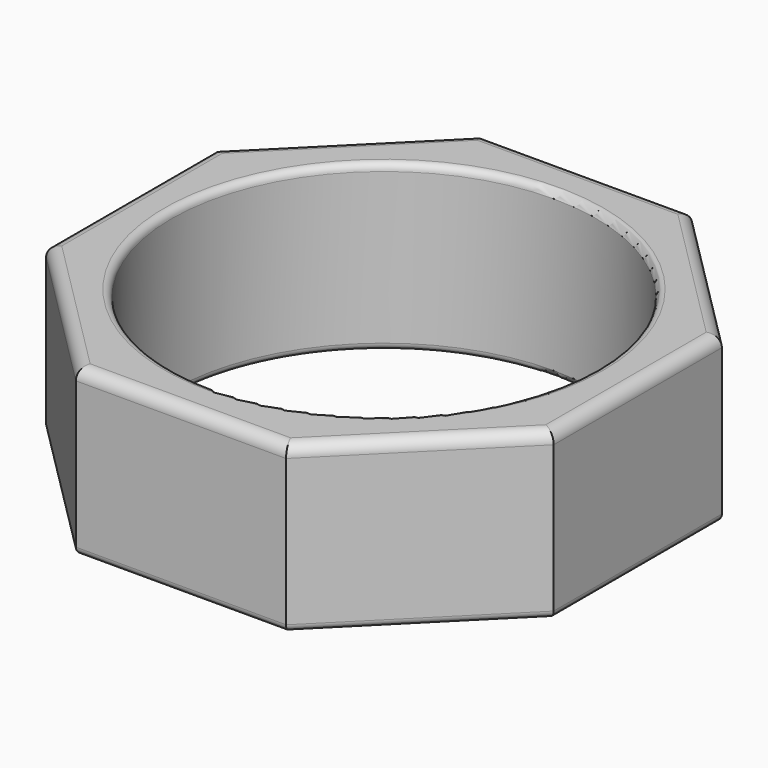
from build123d import *

# Parameters (mm, degrees)
F1_R     = 9
F2_DEPTH = 7
F3_R     = 0.5
F4_R     = 0.3
F5_R     = 0.3
F6_R     = 0.3


with BuildPart() as f2:
    # F1 (on Top) → F2 (new body)
    with BuildSketch(Plane.XY):
        Polygon((4.4527957955, 10.75), (-4.4527957955, 10.75), (-10.75, 4.4527957955), (-10.75, -4.4527957955), (-4.4527957955, -10.75), (4.4527957955, -10.75), (10.75, -4.4527957955), (10.75, 4.4527957955), align=None)
        Circle(F1_R, mode=Mode.SUBTRACT)
    extrude(amount=F2_DEPTH)

    # F3
    f3_edges = [f2.edges().sort_by_distance(p)[0] for p in [
        (7.601398, 7.601398, 7),
        (0, 10.75, 7),
        (-7.601398, 7.601398, 7),
        (-10.75, 0, 7),
        (-7.601398, -7.601398, 7),
        (0, -10.75, 7),
        (7.601398, -7.601398, 7),
        (10.75, 0, 7),
    ]]
    fillet(f3_edges, radius=F3_R)

    # F4
    f4_edges = [f2.edges().sort_by_distance(p)[0] for p in [
        (0, -10.75, 0),
        (-7.601398, -7.601398, 0),
        (-10.75, 0, 0),
        (-7.601398, 7.601398, 0),
        (0, 10.75, 0),
        (7.601398, 7.601398, 0),
        (10.75, 0, 0),
        (7.601398, -7.601398, 0),
    ]]
    fillet(f4_edges, radius=F4_R)

    # F5
    f5_edges = [f2.edges().sort_by_distance(p)[0] for p in [
        (-9, 0, 0),
    ]]
    fillet(f5_edges, radius=F5_R)

    # F6
    f6_edges = [f2.edges().sort_by_distance(p)[0] for p in [
        (-9, 0, 7),
    ]]
    fillet(f6_edges, radius=F6_R)


solid = f2.part
